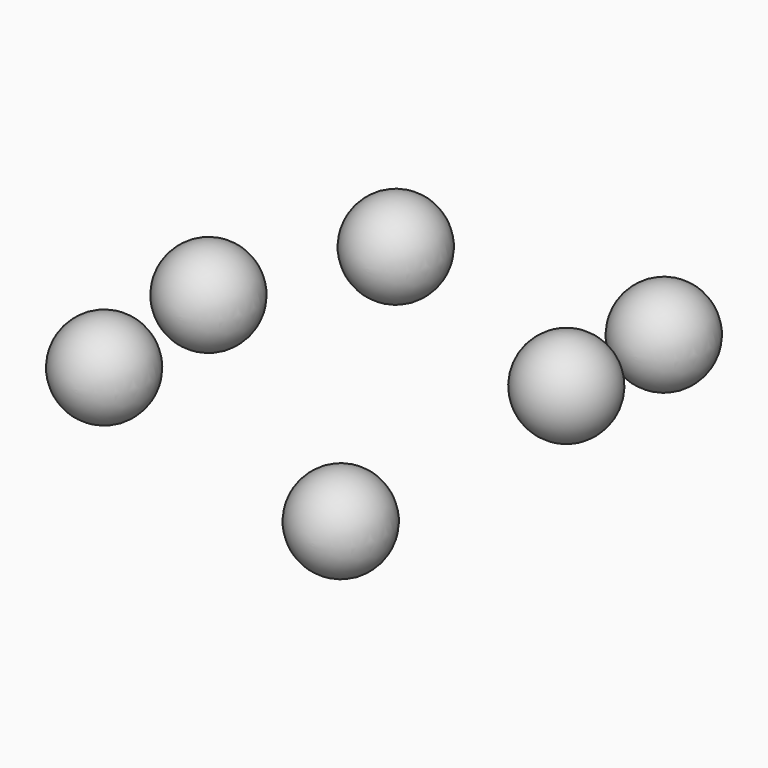
from build123d import *


with BuildPart() as f1:
    # F0 (on Front) → F1 (revolve)
    with BuildSketch(Plane.XZ):
        with BuildLine():
            Line((21.291446, 18.618079), (21.291446, 27.508079))
            ThreePointArc((21.291446, 27.508079), (12.401446, 18.618079), (21.291446, 9.728079))
            Line((21.291446, 9.728079), (21.291446, 18.618079))
        make_face()
    revolve(axis=Axis((21.291446, 0, 17.190892), (0, 0, -1)))


with BuildPart() as f3:
    # F2 (on Top) → F3 (revolve)
    with BuildSketch(Plane.XY):
        with BuildLine():
            Line((-50.150845, 47.59631), (-50.150845, 38.70631))
            ThreePointArc((-50.150845, 38.70631), (-41.260845, 47.59631), (-50.150845, 56.48631))
            Line((-50.150845, 56.48631), (-50.150845, 47.59631))
        make_face()
    revolve(axis=Axis((-50.150845, 47.59631, 0), (0, 1, 0)))


with BuildPart() as f5:
    # F4 (on Top) → F5 (revolve)
    with BuildSketch(Plane.XY):
        with BuildLine():
            Line((-62.537648, 17.281396), (-62.537648, 8.391396))
            ThreePointArc((-62.537648, 8.391396), (-53.647648, 17.281396), (-62.537648, 26.171396))
            Line((-62.537648, 26.171396), (-62.537648, 17.281396))
        make_face()
    revolve(axis=Axis((-62.537648, 12.836396, 0), (0, -1, 0)))


with BuildPart() as f7:
    # F6 (on Top) → F7 (revolve)
    with BuildSketch(Plane.XY):
        with BuildLine():
            Line((-59.977196, -11.425613), (-59.977196, -20.315613))
            ThreePointArc((-59.977196, -20.315613), (-51.087196, -11.425613), (-59.977196, -2.535613))
            Line((-59.977196, -2.535613), (-59.977196, -11.425613))
        make_face()
    revolve(axis=Axis((-59.977196, -11.425613, 0), (0, 1, 0)))


with BuildPart() as f9:
    # F8 (on Top) → F9 (revolve)
    with BuildSketch(Plane.XY):
        with BuildLine():
            Line((0, 59.343499), (0, 41.563499))
            ThreePointArc((0, 41.563499), (8.89, 50.453499), (0, 59.343499))
        make_face()
    revolve(axis=Axis((0, 50.453499, 0), (0, -1, 0)))


with BuildPart() as f11:
    # F10 (on Top) → F11 (revolve)
    with BuildSketch(Plane.XY):
        with BuildLine():
            Line((0, -19.658457), (0, -37.438457))
            ThreePointArc((0, -37.438457), (8.89, -28.548457), (0, -19.658457))
        make_face()
    revolve(axis=Axis((0, -28.548457, 0), (0, -1, 0)))


solid = Compound([f1.part, f3.part, f5.part, f7.part, f9.part, f11.part])
